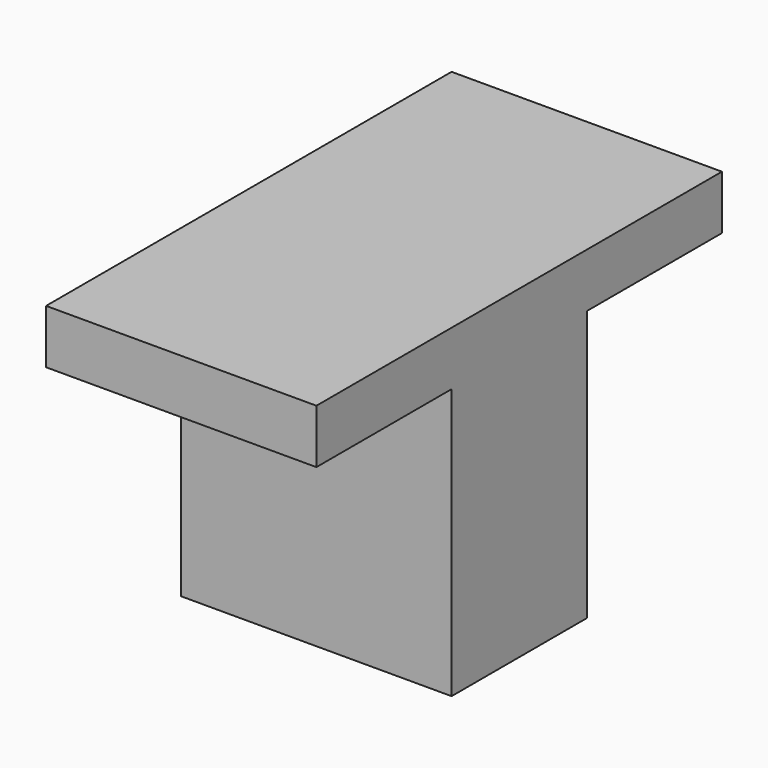
from build123d import *

# Parameters (mm, degrees)
SKETCH002_W  = 15
SKETCH002_H  = 1.6
PAD001_DEPTH = 4
SKETCH_W     = 5
SKETCH_H     = 8
PAD_DEPTH    = 4
SKETCH001_W  = 1
SKETCH001_H  = 1
POCKET_DEPTH = 5


with BuildPart() as pad001:
    # Sketch002 → Pad001 (new body, symmetric)
    with BuildSketch(Plane.YZ):
        with Locations((0, 0.8)):
            Rectangle(SKETCH002_W, SKETCH002_H)
    extrude(amount=PAD001_DEPTH, both=True)


with BuildPart() as fusion:
    # Sketch → Pad (new body, symmetric)
    with BuildSketch(Plane.YZ):
        with Locations((0, -4)):
            Rectangle(SKETCH_W, SKETCH_H)
    extrude(amount=PAD_DEPTH, both=True)

    # Sketch001 → Pocket (cut)
    with BuildSketch(Plane.YX.offset(8)):
        with Locations((-1.27, 2.54)):
            Rectangle(SKETCH001_W, SKETCH001_H)
        with Locations((1.27, 2.54)):
            Rectangle(SKETCH001_W, SKETCH001_H)
        with Locations((-1.27, 0)):
            Rectangle(SKETCH001_W, SKETCH001_H)
        with Locations((1.27, 0)):
            Rectangle(SKETCH001_W, SKETCH001_H)
        with Locations((-1.27, -2.54)):
            Rectangle(SKETCH001_W, SKETCH001_H)
        with Locations((1.27, -2.54)):
            Rectangle(SKETCH001_W, SKETCH001_H)
    extrude(amount=-POCKET_DEPTH, mode=Mode.SUBTRACT)

    # Fusion: union Pad001
    add(pad001.part)


solid = fusion.part
